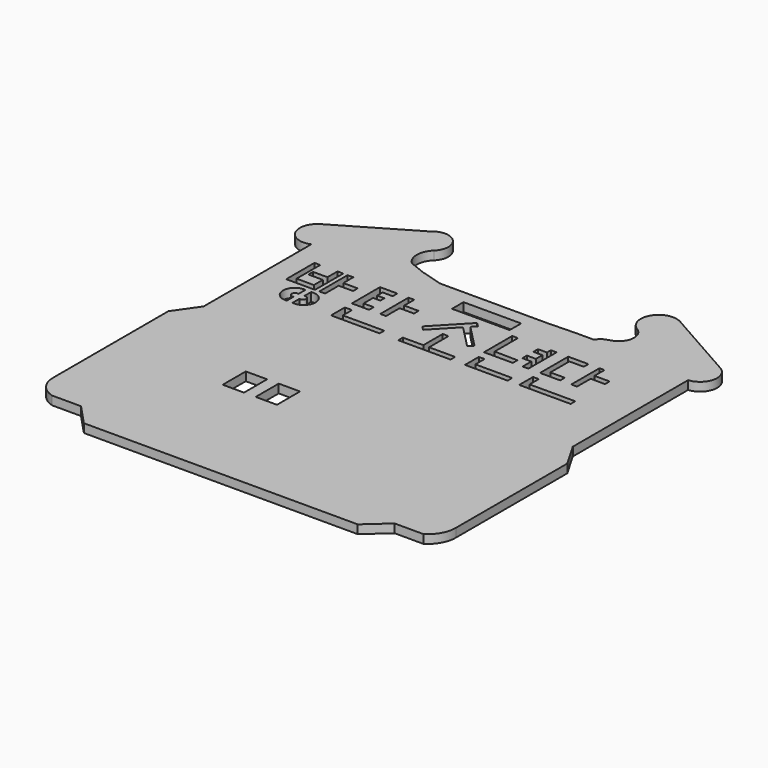
from build123d import *

# Parameters (mm, degrees)
F0_W     = 7.3944082856
F0_H     = 10
F0_W_2   = 7.394
F0_W_3   = 20
F0_H_2   = 5
F0_W_4   = 12.9295032024
F0_H_3   = 4
F0_W_5   = 4
F0_H_4   = 2
F1_DEPTH = 3


with BuildPart() as f1:
    # F0 (on Top) → F1 (new body)
    with BuildSketch(Plane.XY):
        with BuildLine():
            Line((72.3460563783, -23.3392287046), (-57.1586965515, -23.3392287046))
            Line((-57.1586965515, -23.3392287046), (-57.1586965515, -27.7934716308))
            Line((-57.1586965515, -27.7934716308), (-62.8714114428, -36.0010832548))
            Line((-62.8714114428, -36.0010832548), (-62.8714114428, -86.0010832548))
            ThreePointArc((-62.8714114428, -86.0010832548), (-61.102155393, -91.2274471391), (-56.5220229328, -94.3043828011))
            Line((-56.5220229328, -94.3043828011), (-46.5220229328, -94.3043828011))
            Line((-46.5220229328, -94.3043828011), (-39.6812242775, -101.5984539385))
            Line((-39.6812242775, -101.5984539385), (55.3187757225, -101.5984539385))
            Line((55.3187757225, -101.5984539385), (62.774033672, -94.9336862077))
            Line((62.774033672, -94.9336862077), (72.774033672, -94.9336862077))
            ThreePointArc((72.774033672, -94.9336862077), (76.135356085, -91.3724962002), (77.3572234082, -86.6303866614))
            Line((77.3572234082, -86.6303866614), (77.3572234082, -38.2830989705))
            Line((77.3572234082, -38.2830989705), (72.3460563783, -29.6293018271))
            Line((72.3460563783, -29.6293018271), (72.3460563783, -23.3392287046))
        make_face()
        Polygon((-33.379150033, -48.477938503), (-33.379150033, -46.477938503), (-34.9630750716, -46.477938503), (-34.9630750716, -50.477938503), (-33.379150033, -50.477938503), (-33.379150033, -60.477938503), (-34.9630750716, -60.477938503), (-34.9630750716, -64.477938503), (-33.379150033, -64.477938503), (-33.379150033, -66.477938503), (-49.892578274, -66.477938503), (-49.892578274, -64.477938503), (-47.892578274, -64.477938503), (-47.892578274, -60.477938503), (-49.892578274, -60.477938503), (-49.892578274, -50.477938503), (-47.892578274, -50.477938503), (-47.892578274, -46.477938503), (-49.892578274, -46.477938503), (-49.892578274, -44.477938503), (-45.951873064, -44.477938503), (-45.951873064, -42.477938503), (-47.4065802991, -42.477938503), (-47.4065802991, -40.477938503), (-34.9630750716, -40.477938503), (-31.379150033, -44.477938503), (-31.379150033, -48.477938503), align=None, mode=Mode.SUBTRACT)
        with Locations((-20.7225426286, -55.477938503)):
            Rectangle(F0_W, F0_H, mode=Mode.SUBTRACT)
        with Locations((-9.2900967939, -55.477938503)):
            Rectangle(F0_W_2, F0_H, mode=Mode.SUBTRACT)
        with BuildLine():
            Line((23.9428310841, -64.477938503), (23.9428310841, -36.0010832548))
            Line((23.9428310841, -36.0010832548), (33.941513979, -36.163380414))
            Line((33.941513979, -36.163380414), (33.941513979, -64.477938503))
            ThreePointArc((33.941513979, -64.477938503), (28.9421725316, -69.4772799505), (23.9428310841, -64.477938503))
        make_face(mode=Mode.SUBTRACT)
        with BuildLine():
            Line((38.3750386536, -64.477938503), (38.3750386536, -36.163380414))
            Line((38.3750386536, -36.163380414), (48.3750386536, -36.163380414))
            Line((48.3750386536, -36.163380414), (48.3750386536, -64.477938503))
            ThreePointArc((48.3750386536, -64.477938503), (43.3750386536, -69.477938503), (38.3750386536, -64.477938503))
        make_face(mode=Mode.SUBTRACT)
        with BuildLine():
            ThreePointArc((-28.9360948412, 27.1936530951), (-30.9919428027, 31.9537867139), (-28.9360948412, 36.7139203326))
            ThreePointArc((-28.9360948412, 36.7139203326), (-28.7221124747, 44.6950672996), (-36.7044586735, 44.8582988061))
            Line((-36.7044586735, 44.8582988061), (-62.5819294645, 29.6807988322))
            ThreePointArc((-62.5819294645, 29.6807988322), (-64.9426232399, 21.7216482709), (-57.1586965515, 18.8352252132))
            Line((-57.1586965515, 18.8352252132), (-57.1586965515, 13.1085557863))
            Line((-57.1586965515, 13.1085557863), (-57.1586965515, -11.8914442137))
            Line((-57.1586965515, -11.8914442137), (-57.1586965515, -23.3392287046))
            Line((-57.1586965515, -23.3392287046), (72.3460563783, -23.3392287046))
            Line((72.3460563783, -23.3392287046), (72.3460563783, 20.3706981729))
            ThreePointArc((72.3460563783, 20.3706981729), (77.602081112, 24.9911609789), (74.7467246428, 31.3803246156))
            Line((74.7467246428, 31.3803246156), (48.6460575227, 46.1706990491))
            Line((48.6460575227, 46.1706990491), (48.1593732874, 46.2963732235))
            ThreePointArc((48.1593732874, 46.2963732235), (40.4569849003, 43.1335810056), (42.8548762559, 35.1598642733))
            ThreePointArc((42.8548762559, 35.1598642733), (45.3786536259, 30.1186614419), (41.8995591407, 25.6825505592))
            Line((41.8995591407, 25.6825505592), (38.8500019908, 24.5999991894))
            Line((38.8500019908, 24.5999991894), (37.5105995638, 22.970316542))
            Line((37.5105995638, 22.970316542), (31.2569938554, 22.970316542))
            Line((31.2569938554, 22.970316542), (21.5923260851, 22.6860638537))
            Line((21.5923260851, 22.6860638537), (-9.1071914928, 22.6860638537))
            Line((-9.1071914928, 22.6860638537), (-15.6450517522, 22.6860638537))
            Line((-15.6450517522, 22.6860638537), (-23.319932078, 24.9601021238))
            Line((-23.319932078, 24.9601021238), (-28.9360948412, 27.1936530951))
        make_face()
        with BuildLine():
            ThreePointArc((-41.6760705411, -11.1311366782), (-46.2140015275, -7.0789042059), (-41.6760705411, -3.0266717337))
            Line((-41.6760705411, -3.0266717337), (-41.6760705411, -6.0266717337))
            ThreePointArc((-41.6760705411, -6.0266717337), (-43.1709154899, -7.0789042059), (-41.6760705411, -8.1311366782))
            Line((-41.6760705411, -8.1311366782), (-41.6760705411, -11.1311366782))
        make_face(mode=Mode.SUBTRACT)
        with BuildLine():
            Line((-39.6760705411, -6.0266717337), (-39.6760705411, -3.0266717337))
            ThreePointArc((-39.6760705411, -3.0266717337), (-34.941686368, -7.0789042059), (-39.6760705411, -11.1311366782))
            Line((-39.6760705411, -11.1311366782), (-39.6760705411, -8.1311366782))
            ThreePointArc((-39.6760705411, -8.1311366782), (-38.2074366729, -7.0789042059), (-39.6760705411, -6.0266717337))
        make_face(mode=Mode.SUBTRACT)
        Polygon((-41.6760705411, 10.8633437433), (-39.6760705411, 10.8633437433), (-39.6760705411, -1.3791318539), (-49.6760705411, -1.3791318539), (-49.6760705411, 10.8633437433), (-47.6760705411, 10.8633437433), (-47.6760705411, 0.6208681461), (-41.6760705411, 0.6208681461), (-41.6760705411, 4.5136589747), (-46.6760705411, 4.5136589747), (-46.6760705411, 6.5136589747), (-41.6760705411, 6.5136589747), align=None, mode=Mode.SUBTRACT)
        Polygon((-38.1764359772, 10.8633437433), (-36.1764359772, 10.8633437433), (-36.1764359772, 6.5136589747), (-31.1764359772, 6.5136589747), (-31.1764359772, 4.5136589747), (-33.379150033, 4.5136589747), (-36.1764359772, 4.5136589747), (-36.1764359772, -1.3791318539), (-38.1764359772, -1.3791318539), align=None, mode=Mode.SUBTRACT)
        Polygon((-10.0414280146, -10.3910174221), (-26.9197467715, -10.3910174221), (-26.9197467715, -4.3910174221), (-24.4197467715, -4.3910174221), (-24.4197467715, -8.3910174221), (-10.0414280146, -8.3910174221), align=None, mode=Mode.SUBTRACT)
        Polygon((-26.9197467715, 10.8633437433), (-20.9197467715, 10.8633437433), (-20.9197467715, 8.8633437433), (-24.4197467715, 8.8633437433), (-24.4197467715, 6.5136589747), (-21.9197467715, 6.5136589747), (-21.9197467715, 4.7421059447), (-24.4197467715, 4.7421059447), (-24.4197467715, 0.6208681461), (-20.9197467715, 0.6208681461), (-20.9197467715, -1.3791318539), (-26.9197467715, -1.3791318539), align=None, mode=Mode.SUBTRACT)
        Polygon((-17.0414280146, 10.8633437433), (-15.0414280146, 10.8633437433), (-15.0414280146, 6.5136589747), (-10.0414280146, 6.5136589747), (-10.0414280146, 4.5136589747), (-15.0414280146, 4.5136589747), (-15.0414280146, -1.3791318539), (-17.0414280146, -1.3791318539), align=None, mode=Mode.SUBTRACT)
        Polygon((-3.6023200955, -8.3910174221), (2.8300732374, -8.3910174221), (3.5192577634, -8.3910174221), (3.5192577634, 0), (5.5192577634, 0), (5.5192577634, -8.3910174221), (14.5462173969, -8.3910174221), (14.5462173969, -10.3910174221), (-3.6023200955, -10.3910174221), align=None, mode=Mode.SUBTRACT)
        Polygon((-3.6023200955, 0), (6.7411688089, 10.8633437433), (8.1896146413, 9.4842118894), (6.7411688089, 7.9629684176), (14.5462173969, 0), (13.1179118348, -1.3999797218), (5.3612146718, 6.5136589747), (-2.1538742631, -1.3791318539), align=None, mode=Mode.SUBTRACT)
        Polygon((18.9428310841, -1.3791318539), (18.9428310841, 10.8633437433), (20.9428310841, 10.8633437433), (20.9428310841, 0.7507229767), (28.9428310841, 0.6208681461), (28.9428310841, -1.3791318539), align=None, mode=Mode.SUBTRACT)
        Polygon((19.5553395897, -10.3910174221), (19.5553395897, -4.3910174221), (21.5553395897, -4.3910174221), (21.5553395897, -8.3910174221), (34.3452949524, -8.3910174221), (34.3452949524, -10.3910174221), align=None, mode=Mode.SUBTRACT)
        Polygon((32.3452949524, 10.8633437433), (34.3452949524, 10.8633437433), (34.3452949524, -1.3791318539), (32.3452949524, -1.3791318539), (32.3452949524, 2.3732802365), (29.2392894626, 2.3732802365), (29.2392894626, 4.3732802365), (32.3452949524, 4.3732802365), (32.3452949524, 7.1734678932), (29.2392894626, 7.1734678932), (29.2392894626, 9.1734678932), (32.3452949524, 9.1734678932), align=None, mode=Mode.SUBTRACT)
        Polygon((38.3750386536, -1.3791318539), (38.3750386536, 10.8633437433), (45.3750386536, 10.8633437433), (45.3750386536, 8.8633437433), (40.3750386536, 8.8633437433), (40.3750386536, 0.6208681461), (45.3750386536, 0.6208681461), (45.3750386536, -1.3791318539), align=None, mode=Mode.SUBTRACT)
        Polygon((38.3750386536, -10.3910174221), (38.3750386536, -4.3910174221), (40.3750386536, -4.3910174221), (40.3750386536, -8.3910174221), (56.2181740701, -8.3910174221), (56.2181740701, -10.3910174221), align=None, mode=Mode.SUBTRACT)
        Polygon((49.2181740701, -1.3791318539), (49.2181740701, 10.8633437433), (50.9630478919, 10.8633437433), (50.9630478919, 6.5136589747), (56.2181740701, 6.5136589747), (56.2181740701, 4.5136589747), (51.2181740701, 4.5136589747), (51.2181740701, -1.3791318539), align=None, mode=Mode.SUBTRACT)
        with Locations((6.2573329513, 15.6085557863)):
            Rectangle(F0_W_3, F0_H_2, mode=Mode.SUBTRACT)
        with BuildLine():
            Line((33.941513979, -36.163380414), (23.9428310841, -36.0010832548))
            Line((23.9428310841, -36.0010832548), (23.9428310841, -64.477938503))
            ThreePointArc((23.9428310841, -64.477938503), (28.9421725316, -69.4772799505), (33.941513979, -64.477938503))
            Line((33.941513979, -64.477938503), (33.941513979, -36.163380414))
        make_face()
        with BuildLine():
            Line((48.3750386536, -36.163380414), (38.3750386536, -36.163380414))
            Line((38.3750386536, -36.163380414), (38.3750386536, -64.477938503))
            ThreePointArc((38.3750386536, -64.477938503), (43.3750386536, -69.477938503), (48.3750386536, -64.477938503))
            Line((48.3750386536, -64.477938503), (48.3750386536, -36.163380414))
        make_face()
        Polygon((-33.379150033, -50.477938503), (-34.9630750716, -50.477938503), (-47.892578274, -50.477938503), (-49.892578274, -50.477938503), (-49.892578274, -60.477938503), (-47.892578274, -60.477938503), (-34.9630750716, -60.477938503), (-33.379150033, -60.477938503), align=None)
        with Locations((-41.4278266728, -48.477938503)):
            Rectangle(F0_W_4, F0_H_3)
        with Locations((-41.4278266728, -62.477938503)):
            Rectangle(F0_W_4, F0_H_3)
        Polygon((-34.9630750716, -42.477938503), (-33.379150033, -44.477938503), (-33.379150033, -46.477938503), (-33.379150033, -48.477938503), (-31.379150033, -48.477938503), (-31.379150033, -44.477938503), (-34.9630750716, -40.477938503), (-47.4065802991, -40.477938503), (-47.4065802991, -42.477938503), (-45.951873064, -42.477938503), (-41.951873064, -42.477938503), (-37.951873064, -42.477938503), align=None)
        Polygon((-33.379150033, -64.477938503), (-34.9630750716, -64.477938503), (-47.892578274, -64.477938503), (-49.892578274, -64.477938503), (-49.892578274, -66.477938503), (-33.379150033, -66.477938503), align=None)
        Polygon((-33.379150033, -46.477938503), (-33.379150033, -44.477938503), (-37.951873064, -44.477938503), (-41.951873064, -44.477938503), (-45.951873064, -44.477938503), (-49.892578274, -44.477938503), (-49.892578274, -46.477938503), (-47.892578274, -46.477938503), (-34.9630750716, -46.477938503), align=None)
        with Locations((-39.951873064, -43.477938503)):
            Rectangle(F0_W_5, F0_H_4)
        with Locations((-43.951873064, -43.477938503)):
            Rectangle(F0_W_5, F0_H_4)
        Polygon((-37.951873064, -44.477938503), (-33.379150033, -44.477938503), (-34.9630750716, -42.477938503), (-37.951873064, -42.477938503), align=None)
    extrude(amount=F1_DEPTH)


solid = f1.part
